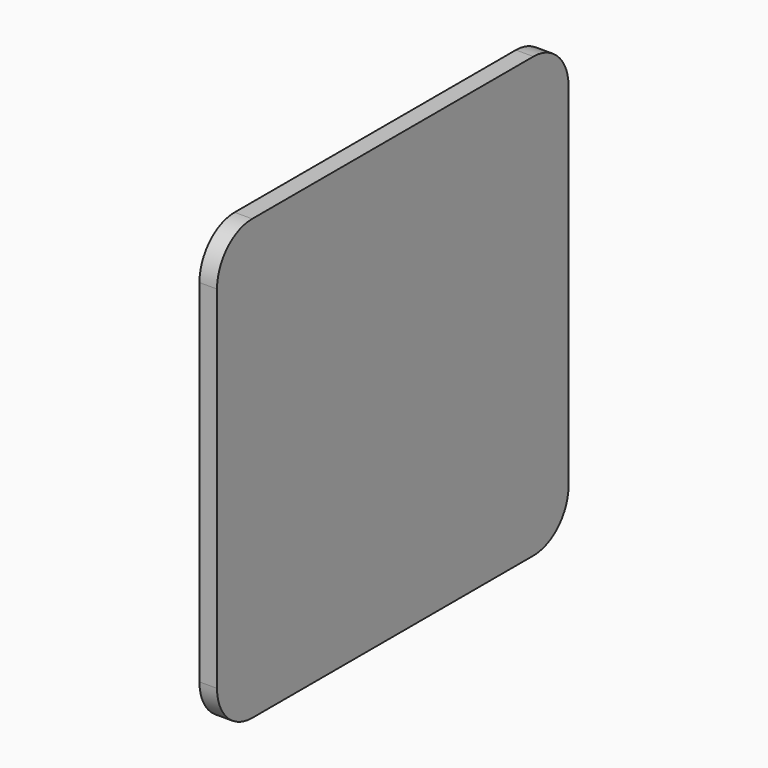
from build123d import *

# Parameters (mm, degrees)
PAD_DEPTH = 2


with BuildPart() as part:
    # Sketch004 (on Sketch) → Pad (new body)
    with BuildSketch(Plane(origin=(-1.65, 0, 0), x_dir=(0, 1, 0), z_dir=(-1, 0, 0))):
        with BuildLine():
            Line((-20, 25), (20, 25))
            ThreePointArc((25, 20), (23.535534, 23.535534), (20, 25))
            Line((25, 20), (25, -20))
            ThreePointArc((20, -25), (23.535534, -23.535534), (25, -20))
            Line((20, -25), (-20, -25))
            ThreePointArc((-25, -20), (-23.535534, -23.535534), (-20, -25))
            Line((-25, -20), (-25, 20))
            ThreePointArc((-20, 25), (-23.535534, 23.535534), (-25, 20))
        make_face()
    extrude(amount=PAD_DEPTH)


solid = part.part
